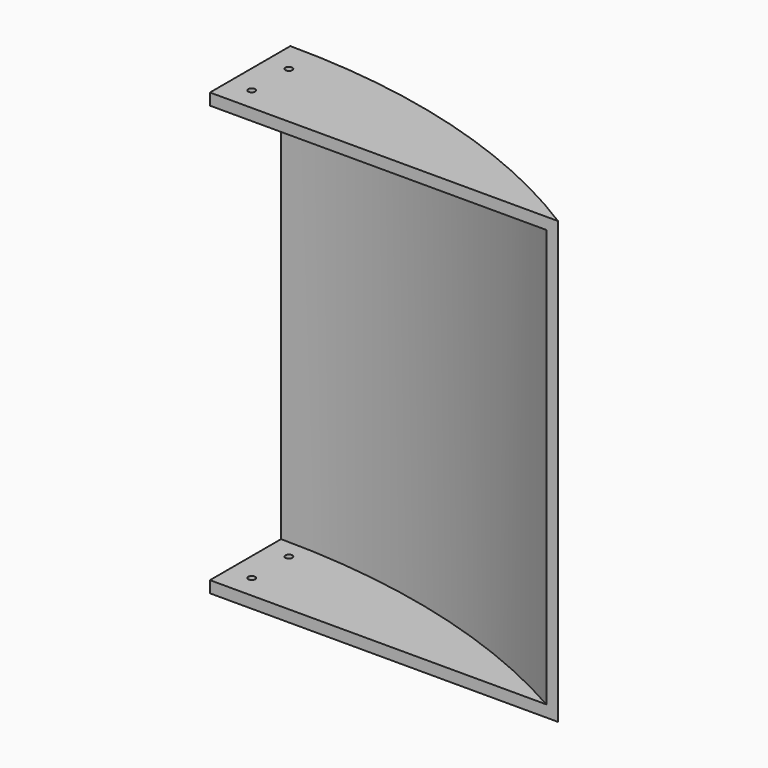
from build123d import *

# Parameters (mm, degrees)
F1_DEPTH = 5
F3_DEPTH = 180
F5_DEPTH = 5
F7_D     = 3
F7_DEPTH = 200
F7_TIP   = 0.9012909285


with BuildPart() as f1:
    # F0 (on Top) → F1 (new body)
    with BuildSketch(Plane.XY):
        with BuildLine():
            Line((-75, 0), (0, 0))
            Line((0, 0), (75, 0))
            ThreePointArc((75, 0), (3.0622988388, 32.2584255386), (-75, 43.3))
            Line((-75, 43.3), (-75, 0))
        make_face()
    extrude(amount=F1_DEPTH)

    # F2 (on face) → F3 (join)
    with BuildSketch(Plane.XY.offset(5)):
        with BuildLine():
            ThreePointArc((75, 0), (3.0622988388, 32.2584255386), (-75, 43.3))
            Line((-75, 43.3), (-75, 38.3))
            ThreePointArc((-75, 38.3), (-0.0135178849, 28.5635745872), (70, 0))
            Line((70, 0), (75, 0))
        make_face()
    extrude(amount=F3_DEPTH)

    # F4 (on face) → F5 (join)
    with BuildSketch(Plane.XY.offset(185)):
        with BuildLine():
            ThreePointArc((70, 0), (-0.0135178849, 28.5635745872), (-75, 38.3))
            Line((-75, 38.3), (-75, 0))
            Line((-75, 0), (70, 0))
        make_face()
        with BuildLine():
            Line((-75, 43.3), (-75, 38.3))
            ThreePointArc((-75, 38.3), (-0.0135178849, 28.5635745872), (70, 0))
            Line((70, 0), (75, 0))
            ThreePointArc((75, 0), (3.0622988388, 32.2584255386), (-75, 43.3))
        make_face()
    extrude(amount=F5_DEPTH)

    # F7
    with Locations(Plane.XY.offset(190)):
        with Locations((-65, 30), (-65, 10)):
            Hole(F7_D / 2, depth=F7_DEPTH)
            with Locations((0, 0, -(F7_DEPTH + F7_TIP / 2))):  # 118° drill point
                Cone(0, F7_D / 2, F7_TIP, mode=Mode.SUBTRACT)


solid = f1.part
